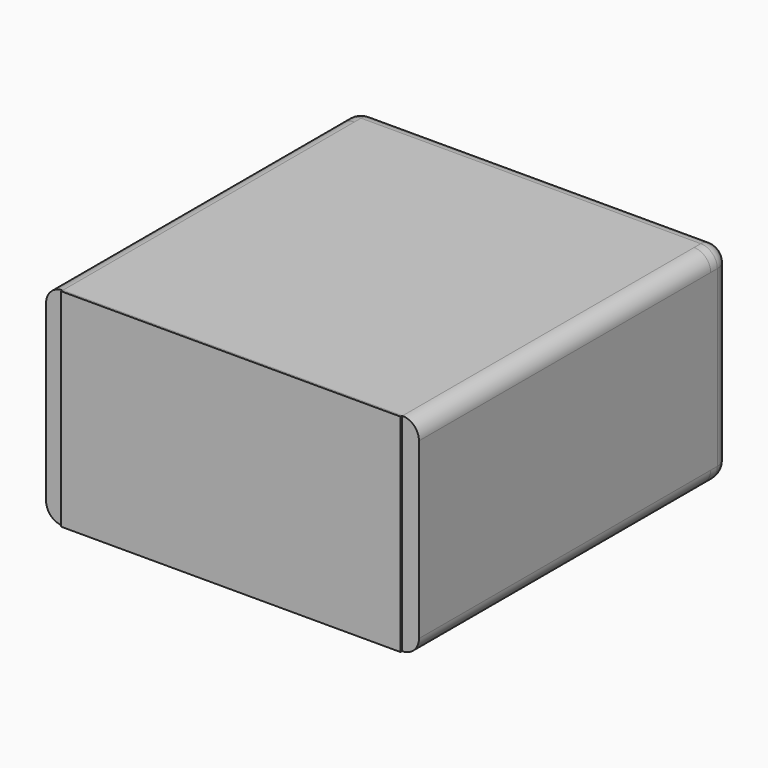
from build123d import *

# Parameters (mm, degrees)
F0_W     = 508
F0_H     = 254
F1_DEPTH = 558.8
F2_W     = 38.1
F2_H     = 317.5
F3_DEPTH = 571.5
F4_R     = 25.4
F6_DEPTH = 25.4
F7_W     = 520.4349756241
F7_H     = 317.6523149014
F8_DEPTH = 3.175


with BuildPart() as f1:
    # F0 (on Front) → F1 (new body)
    with BuildSketch(Plane.XZ):
        with BuildLine():
            ThreePointArc((285.75, 292.1), (278.3105122421, 310.0605122421), (260.35, 317.5))
            Line((260.35, 317.5), (-260.35, 317.5))
            ThreePointArc((-260.35, 317.5), (-278.3105122421, 310.0605122421), (-285.75, 292.1))
            Line((-285.75, 292.1), (-285.75, 25.4))
            ThreePointArc((-285.75, 25.4), (-278.3105122421, 7.4394877579), (-260.35, 0))
            Line((-260.35, 0), (260.35, 0))
            ThreePointArc((260.35, 0), (278.3105122421, 7.4394877579), (285.75, 25.4))
            Line((285.75, 25.4), (285.75, 292.1))
        make_face()
        with Locations((0, 158.75)):
            Rectangle(F0_W, F0_H, mode=Mode.SUBTRACT)
    extrude(amount=F1_DEPTH)

    # F2 (on face) → F3 (join, through all)
    with BuildSketch(Plane.YZ.offset(285.75)):
        with Locations((19.05, 158.75)):
            Rectangle(F2_W, F2_H)
    extrude(amount=-F3_DEPTH)

    # F4
    f4_edges = [f1.edges().sort_by_distance(p)[0] for p in [
        (0, 38.1, 317.5),
        (285.75, 19.05, 317.5),
        (285.75, 38.1, 158.75),
        (-285.75, 19.05, 317.5),
        (0, 38.1, 0),
        (-285.75, 19.05, 0),
        (-285.75, 38.1, 158.75),
        (285.75, 19.05, 0),
    ]]
    fillet(f4_edges, radius=F4_R)


with BuildPart() as f6:
    # F5 (on face) → F6 (new body)
    with BuildSketch(Plane.XZ.offset(558.8)):
        with BuildLine():
            Line((-247.6499974728, 266.6999974728), (-247.6499974728, 50.8000025272))
            ThreePointArc((-247.6499974728, 50.8000025272), (-243.9302535938, 41.8197464062), (-234.9499974728, 38.1000025272))
            Line((-234.9499974728, 38.1000025272), (234.9499974728, 38.1000025272))
            ThreePointArc((234.9499974728, 38.1000025272), (243.9302535938, 41.8197464062), (247.6499974728, 50.8000025272))
            Line((247.6499974728, 50.8000025272), (247.6499974728, 266.6999974728))
            ThreePointArc((247.6499974728, 266.6999974728), (243.9302535938, 275.6802535938), (234.9499974728, 279.3999974728))
            Line((234.9499974728, 279.3999974728), (-234.9499974728, 279.3999974728))
            ThreePointArc((-234.9499974728, 279.3999974728), (-243.9302535938, 275.6802535938), (-247.6499974728, 266.6999974728))
        make_face()
    extrude(amount=-F6_DEPTH)


with BuildPart() as f8:
    # F7 (on face) → F8 (new body)
    with BuildSketch(Plane.XZ.offset(558.8)):
        with Locations((-0.2389550209, 158.8261574507)):
            Rectangle(F7_W, F7_H)
    extrude(amount=F8_DEPTH)


solid = Compound([f1.part, f6.part, f8.part])
